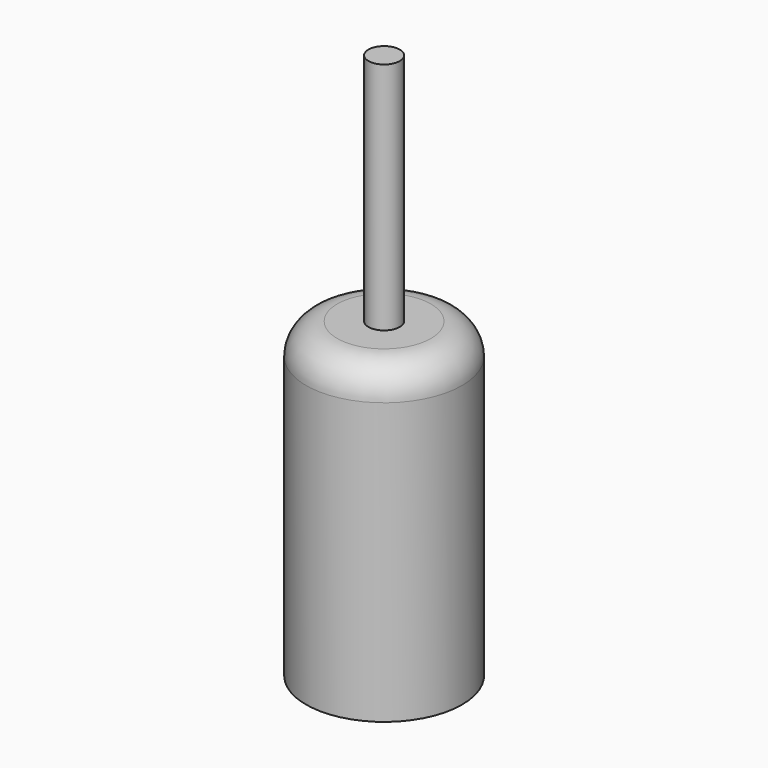
from build123d import *

# Parameters (mm, degrees)
F0_R     = 12.7
F1_DEPTH = 50.8
F2_R     = 2.54
F3_DEPTH = 88.9
F4_R     = 5.08


with BuildPart() as f1:
    # F0 (on Top) → F1 (new body)
    with BuildSketch(Plane.XY):
        Circle(F0_R)
    extrude(amount=F1_DEPTH)

    # F4
    f4_edges = [f1.edges().sort_by_distance(p)[0] for p in [
        (-12.7, 0, 50.8),
    ]]
    fillet(f4_edges, radius=F4_R)


with BuildPart() as f3:
    # F2 (on Top) → F3 (new body)
    with BuildSketch(Plane.XY):
        Circle(F2_R)
    extrude(amount=F3_DEPTH)


solid = Compound([f1.part, f3.part])
